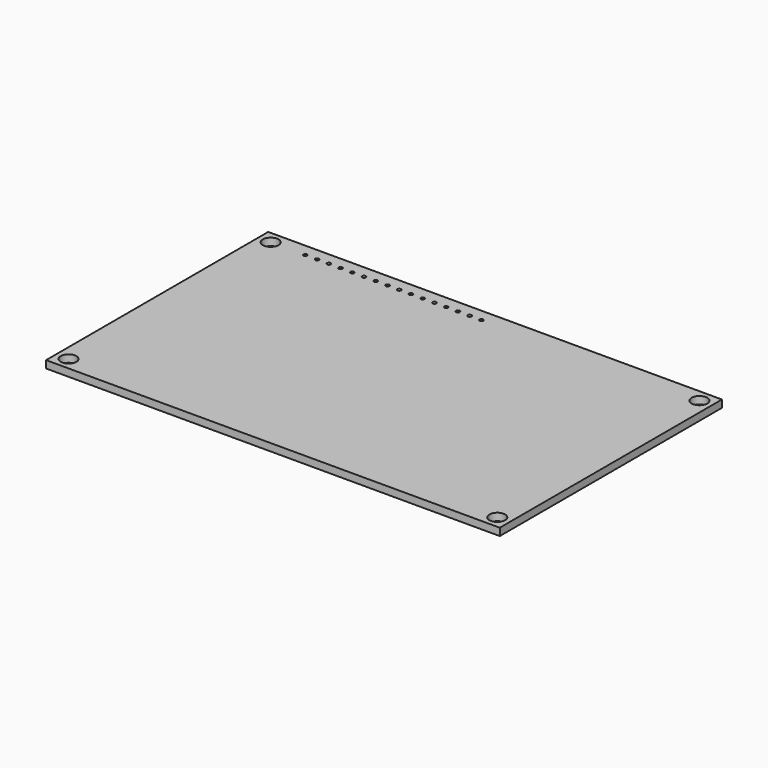
from build123d import *

# Parameters (mm, degrees)
SKETCH010_W         = 98.2
SKETCH010_H         = 60.1
PAD003002_DEPTH     = 1.6
SKETCH011_R         = 1.7
POCKET005002_DEPTH  = 1.601
SKETCH012_R         = 0.4
POCKET005003_DEPTH  = 1.601
LINEARPATTERN_COUNT = 16
LINEARPATTERN_PITCH = 2.54


with BuildPart() as part:
    # Sketch010 → Pad003002 (new body)
    with BuildSketch(Plane.XY):
        Rectangle(SKETCH010_W, SKETCH010_H)
    extrude(amount=-PAD003002_DEPTH)

    # Sketch011 (on Face5 of Pad003002) → Pocket005002 (cut, through all)
    with BuildSketch(Plane.XY):
        with Locations((-46.4, 27.35)):
            Circle(SKETCH011_R)
        with Locations((46.4, 27.35)):
            Circle(SKETCH011_R)
        with Locations((-46.4, -27.35)):
            Circle(SKETCH011_R)
        with Locations((46.4, -27.35)):
            Circle(SKETCH011_R)
    extrude(amount=-POCKET005002_DEPTH, mode=Mode.SUBTRACT)

    # Sketch012 (on Face4 of Pocket005002) → Pocket005003 (cut, through all)
    with BuildSketch(Plane.XY):
        with Locations((-38.9, 27.35)):
            Circle(SKETCH012_R)
    pocket005003 = extrude(amount=-POCKET005003_DEPTH, mode=Mode.SUBTRACT)

    # LinearPattern: Pocket005003 ×16
    with Locations(*[(i * LINEARPATTERN_PITCH, 0, 0) for i in range(1, LINEARPATTERN_COUNT)]):
        add(pocket005003, mode=Mode.SUBTRACT)


solid = part.part
